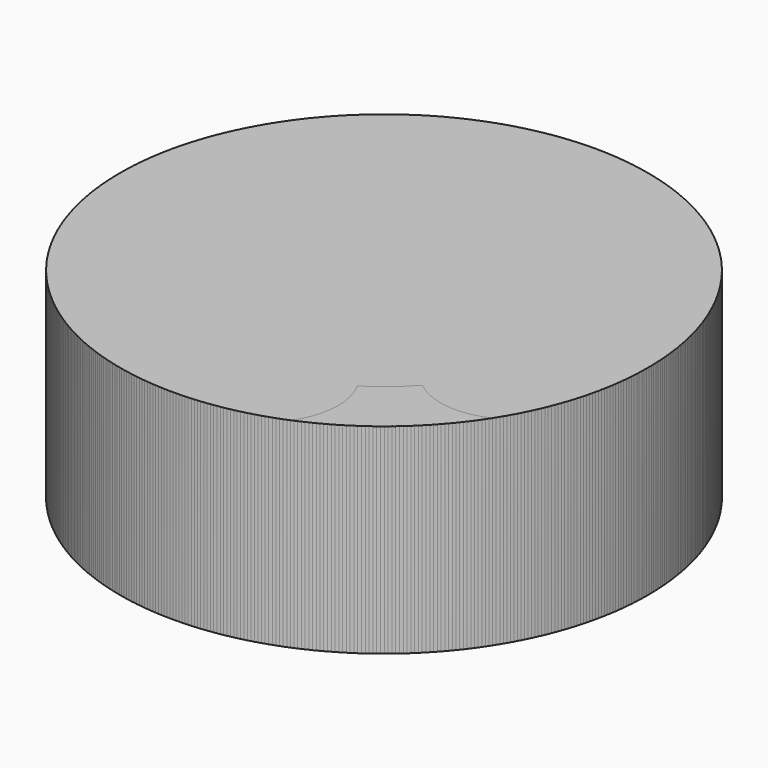
from build123d import *

# Parameters (mm, degrees)
F0_R     = 66.2984043902
F1_DEPTH = 50.292
F3_DEPTH = 50.293
F4_COUNT = 9


with BuildPart() as f1:
    # F0 (on Top) → F1 (new body)
    with BuildSketch(Plane.XY):
        Circle(F0_R)
    extrude(amount=F1_DEPTH)

    # F2 (on face) → F3 (cut, through all)
    with BuildSketch(Plane.XY.offset(50.292)):
        with BuildLine():
            ThreePointArc((6.372642361, -49.0225920767), (0, -49.4350594678), (-6.372642361, -49.0225920767))
            ThreePointArc((-6.372642361, -49.0225920767), (-11.0548002745, -58.0789977777), (-19.8341669899, -63.2620284571))
            ThreePointArc((-19.8341669899, -63.2620284571), (0, -66.2984043902), (19.8341669899, -63.2620284571))
            ThreePointArc((19.8341669899, -63.2620284571), (11.0548002745, -58.0789977777), (6.372642361, -49.0225920767))
        make_face()
    extrude(amount=-F3_DEPTH, mode=Mode.SUBTRACT)


with BuildPart() as f4_1:
    # F4: instance of F1
    add(f1.part.rotate(Axis((0, 0, 0), (0, 0, -1)), 1 * 360 / F4_COUNT))


with BuildPart() as f4_2:
    # F4: instance of F1
    add(f1.part.rotate(Axis((0, 0, 0), (0, 0, -1)), 2 * 360 / F4_COUNT))


with BuildPart() as f4_3:
    # F4: instance of F1
    add(f1.part.rotate(Axis((0, 0, 0), (0, 0, -1)), 3 * 360 / F4_COUNT))


with BuildPart() as f4_4:
    # F4: instance of F1
    add(f1.part.rotate(Axis((0, 0, 0), (0, 0, -1)), 4 * 360 / F4_COUNT))


with BuildPart() as f4_5:
    # F4: instance of F1
    add(f1.part.rotate(Axis((0, 0, 0), (0, 0, -1)), 5 * 360 / F4_COUNT))


with BuildPart() as f4_6:
    # F4: instance of F1
    add(f1.part.rotate(Axis((0, 0, 0), (0, 0, -1)), 6 * 360 / F4_COUNT))


with BuildPart() as f4_7:
    # F4: instance of F1
    add(f1.part.rotate(Axis((0, 0, 0), (0, 0, -1)), 7 * 360 / F4_COUNT))


with BuildPart() as f4_8:
    # F4: instance of F1
    add(f1.part.rotate(Axis((0, 0, 0), (0, 0, -1)), 8 * 360 / F4_COUNT))


solid = Compound([f1.part, f4_1.part, f4_2.part, f4_3.part, f4_4.part, f4_5.part, f4_6.part, f4_7.part, f4_8.part])
